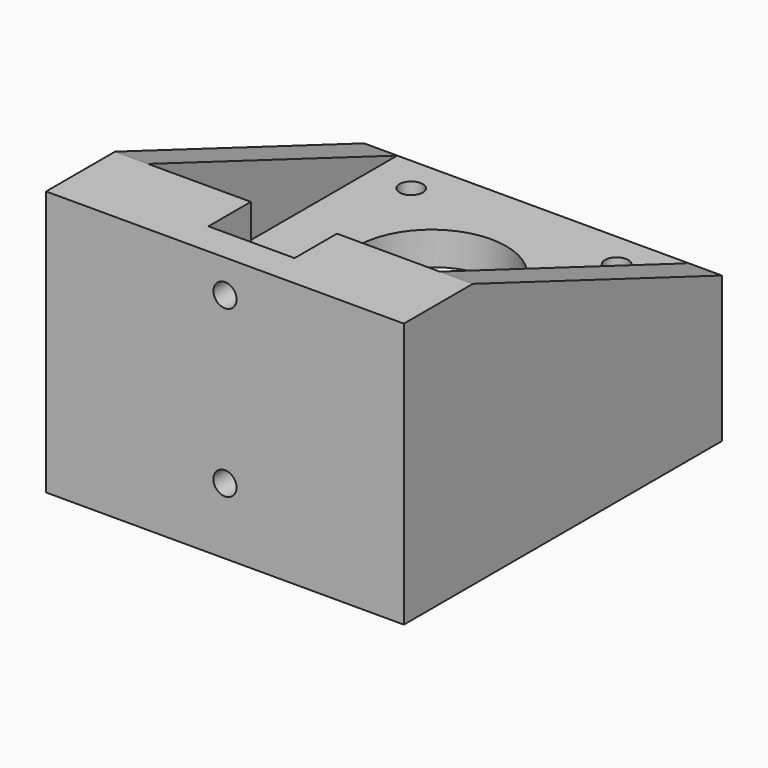
from build123d import *

# Parameters (mm, degrees)
SKETCH113_W     = 54
SKETCH113_H     = 60
SKETCH113_R     = 11.25
SKETCH113_R_2   = 1.75
PAD070_DEPTH    = 40
SKETCH125_W     = 44
SKETCH125_H     = 50
POCKET041_DEPTH = 18.001
SKETCH126_W     = 13
SKETCH126_H     = 9
POCKET042_DEPTH = 40.001
SKETCH127_R     = 1.75
POCKET043_DEPTH = 13.001
SKETCH161_W     = 44
SKETCH161_H     = 50
POCKET060_DEPTH = 17.001
CHAMFER_SIZE2   = 47
CHAMFER_SIZE    = 18


with BuildPart() as part:
    # Sketch113 → Pad070 (new body)
    with BuildSketch(Plane.XY):
        with Locations((0, 17)):
            Rectangle(SKETCH113_W, SKETCH113_H)
        with Locations((0, 26)):
            Circle(SKETCH113_R, mode=Mode.SUBTRACT)
        with Locations((-15.5, 41.5)):
            Circle(SKETCH113_R_2, mode=Mode.SUBTRACT)
        with Locations((15.5, 41.5)):
            Circle(SKETCH113_R_2, mode=Mode.SUBTRACT)
        with Locations((15.5, 10.5)):
            Circle(SKETCH113_R_2, mode=Mode.SUBTRACT)
        with Locations((-15.5, 10.5)):
            Circle(SKETCH113_R_2, mode=Mode.SUBTRACT)
    extrude(amount=PAD070_DEPTH)

    # Sketch125 → Pocket041 (cut, through all)
    with BuildSketch(Plane.XY.offset(22)):
        with Locations((0, 25)):
            Rectangle(SKETCH125_W, SKETCH125_H)
    extrude(amount=POCKET041_DEPTH, mode=Mode.SUBTRACT)

    # Sketch126 → Pocket042 (cut, through all)
    with BuildSketch(Plane.XY):
        with Locations((0, -3.5)):
            Rectangle(SKETCH126_W, SKETCH126_H)
    extrude(amount=POCKET042_DEPTH, mode=Mode.SUBTRACT)

    # Sketch127 → Pocket043 (cut, through all)
    with BuildSketch(Plane.XZ):
        with Locations((0, 35)):
            Circle(SKETCH127_R)
        with Locations((0, 10)):
            Circle(SKETCH127_R)
    extrude(amount=POCKET043_DEPTH, mode=Mode.SUBTRACT)

    # Sketch161 → Pocket060 (cut, through all)
    with BuildSketch(Plane.XY.offset(17)):
        with Locations((0, 25)):
            Rectangle(SKETCH161_W, SKETCH161_H)
    extrude(amount=-POCKET060_DEPTH, mode=Mode.SUBTRACT)

    # Chamfer
    chamfer_edges = [part.edges().sort_by_distance(p)[0] for p in [
        (24.5, 47, 40),
        (-24.5, 47, 40),
    ]]
    chamfer_side = part.faces().sort_by_distance((0, 47, 19.822581))[0]
    chamfer(chamfer_edges, length=CHAMFER_SIZE, length2=CHAMFER_SIZE2, reference=chamfer_side)


solid = part.part
